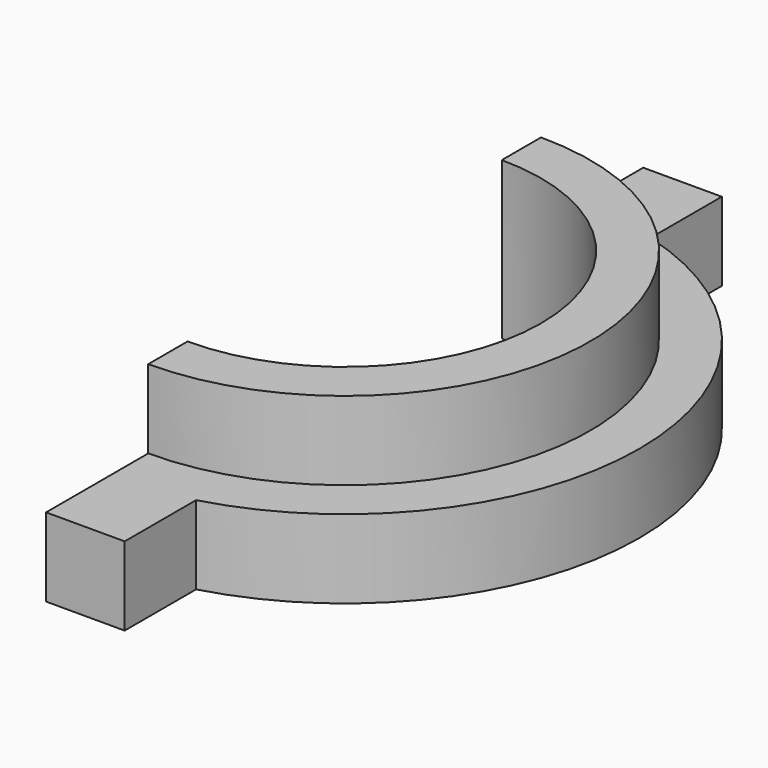
from build123d import *

# Parameters (mm, degrees)
F1_DEPTH = 2.54
F3_DEPTH = 2.54


with BuildPart() as f1:
    # F0 (on Top) → F1 (new body)
    with BuildSketch(Plane.XY):
        with BuildLine():
            Line((0, 6.029797), (0, 2.854797))
            ThreePointArc((0, 2.854797), (1.281656, 2.941419), (2.54, 3.199709))
            ThreePointArc((2.54, 3.199709), (9.525, 12.379797), (2.54, 21.559886))
            ThreePointArc((2.54, 21.559886), (1.281656, 21.818175), (0, 21.904797))
            Line((0, 21.904797), (0, 18.729797))
            ThreePointArc((0, 18.729797), (6.35, 12.379797), (0, 6.029797))
        make_face()
        with BuildLine():
            ThreePointArc((2.54, 3.199709), (1.281656, 2.941419), (0, 2.854797))
            Line((0, 2.854797), (0, 0.314797))
            Line((0, 0.314797), (2.54, 0.314797))
            Line((2.54, 0.314797), (2.54, 3.199709))
        make_face()
        with BuildLine():
            ThreePointArc((0, 21.904797), (1.281656, 21.818175), (2.54, 21.559886))
            Line((2.54, 21.559886), (2.54, 24.444797))
            Line((2.54, 24.444797), (0, 24.444797))
            Line((0, 24.444797), (0, 21.904797))
        make_face()
    extrude(amount=F1_DEPTH)

    # F2 (on face) → F3 (join)
    with BuildSketch(Plane.XY.offset(2.54)):
        with BuildLine():
            Line((0, 6.029797), (0, 4.442297))
            ThreePointArc((0, 4.442297), (7.9375, 12.379797), (0, 20.317297))
            Line((0, 20.317297), (0, 18.729797))
            ThreePointArc((0, 18.729797), (6.35, 12.379797), (0, 6.029797))
        make_face()
    extrude(amount=F3_DEPTH)


solid = f1.part
